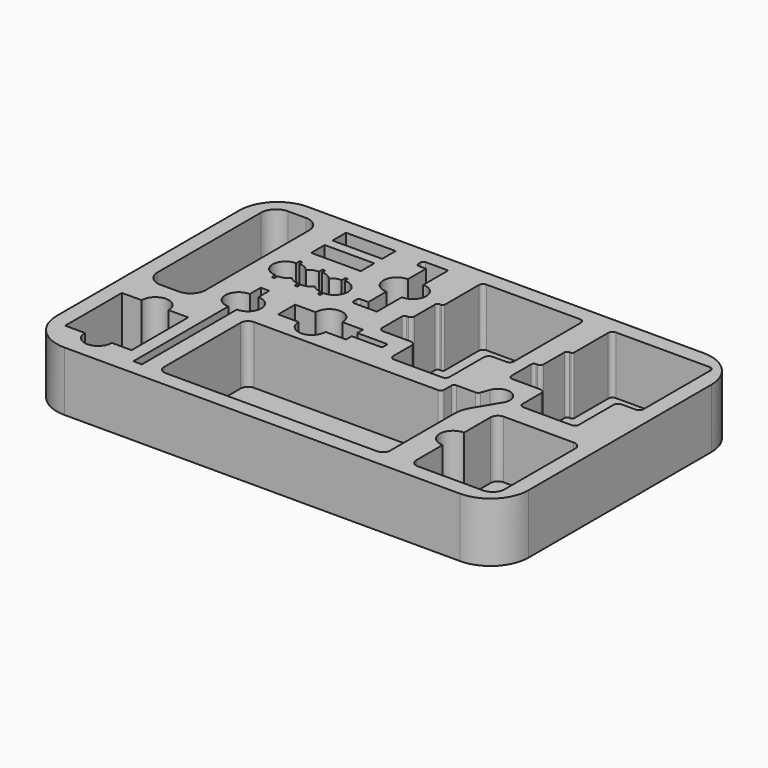
from build123d import *

# Parameters (mm, degrees)
F1_DEPTH  = 39
F3_DEPTH  = 38
F5_DEPTH  = 38
F7_DEPTH  = 38
F9_DEPTH  = 38
F11_DEPTH = 38
F13_DEPTH = 33
F14_W     = 32.6
F14_H     = 11.1
F15_DEPTH = 37
F17_DEPTH = 38
F19_DEPTH = 38
F21_DEPTH = 38


with BuildPart() as f1:
    # F0 (on Top) → F1 (new body)
    with BuildSketch(Plane.XY):
        with BuildLine():
            ThreePointArc((203, 93), (195.67767, 110.67767), (178, 118))
            Line((178, 118), (-82, 118))
            ThreePointArc((-82, 118), (-99.67767, 110.67767), (-107, 93))
            Line((-107, 93), (-107, -57))
            ThreePointArc((-107, -57), (-99.67767, -74.67767), (-82, -82))
            Line((-82, -82), (178, -82))
            ThreePointArc((178, -82), (195.67767, -74.67767), (203, -57))
            Line((203, -57), (203, 93))
        make_face()
    extrude(amount=-F1_DEPTH)

    # F2 (on face) → F3 (cut)
    with BuildSketch(Plane.XY):
        with BuildLine():
            Line((137.2, -6), (137.2, -27.702273))
            ThreePointArc((137.2, -27.702273), (128.2, -36.5), (137.2, -45.297727))
            Line((137.2, -45.297727), (137.2, -67))
            ThreePointArc((137.2, -67), (138.605887, -70.394113), (142, -71.8))
            Line((142, -71.8), (185, -71.8))
            ThreePointArc((185, -71.8), (190.515433, -69.515433), (192.8, -64))
            Line((192.8, -64), (192.8, -6))
            ThreePointArc((192.8, -6), (191.394113, -2.605887), (188, -1.2))
            Line((188, -1.2), (142, -1.2))
            ThreePointArc((142, -1.2), (138.605887, -2.605887), (137.2, -6))
        make_face()
    extrude(amount=-F3_DEPTH, mode=Mode.SUBTRACT)

    # F4 (on face) → F5 (cut)
    with BuildSketch(Plane.XY):
        with BuildLine():
            Line((190, 107.8), (128.5, 107.8))
            ThreePointArc((128.5, 107.8), (126.520101, 106.979899), (125.7, 105))
            Line((125.7, 105), (125.7, 77))
            ThreePointArc((125.7, 77), (125.348528, 76.151472), (124.5, 75.8))
            Line((124.5, 75.8), (123.5, 75.8))
            ThreePointArc((123.5, 75.8), (122.227208, 75.272792), (121.7, 74))
            Line((121.7, 74), (121.7, 57))
            ThreePointArc((121.7, 57), (121.055635, 55.444365), (119.5, 54.8))
            Line((119.5, 54.8), (118.5, 54.8))
            ThreePointArc((118.5, 54.8), (117.227208, 54.272792), (116.7, 53))
            Line((116.7, 53), (116.7, 37))
            ThreePointArc((116.7, 37), (117.520101, 35.020101), (119.5, 34.2))
            Line((119.5, 34.2), (137.5, 34.2))
            ThreePointArc((137.5, 34.2), (139.762742, 33.262742), (140.7, 31))
            Line((140.7, 31), (140.7, 16))
            ThreePointArc((140.7, 16), (141.520101, 14.020101), (143.5, 13.2))
            Line((143.5, 13.2), (175, 13.2))
            ThreePointArc((175, 13.2), (176.979899, 14.020101), (177.8, 16))
            Line((177.8, 16), (177.8, 44))
            ThreePointArc((177.8, 44), (178.737258, 46.262742), (181, 47.2))
            Line((181, 47.2), (190, 47.2))
            ThreePointArc((190, 47.2), (191.979899, 48.020101), (192.8, 50))
            Line((192.8, 50), (192.8, 105))
            ThreePointArc((192.8, 105), (191.979899, 106.979899), (190, 107.8))
        make_face()
        with BuildLine():
            Line((105, 107.8), (43.5, 107.8))
            ThreePointArc((43.5, 107.8), (41.520101, 106.979899), (40.7, 105))
            Line((40.7, 105), (40.7, 77))
            ThreePointArc((40.7, 77), (40.348528, 76.151472), (39.5, 75.8))
            Line((39.5, 75.8), (38.5, 75.8))
            ThreePointArc((38.5, 75.8), (37.227208, 75.272792), (36.7, 74))
            Line((36.7, 74), (36.7, 57))
            ThreePointArc((36.7, 57), (36.055635, 55.444365), (34.5, 54.8))
            Line((34.5, 54.8), (33.5, 54.8))
            ThreePointArc((33.5, 54.8), (32.227208, 54.272792), (31.7, 53))
            Line((31.7, 53), (31.7, 37))
            ThreePointArc((31.7, 37), (32.520101, 35.020101), (34.5, 34.2))
            Line((34.5, 34.2), (52.5, 34.2))
            ThreePointArc((52.5, 34.2), (54.762742, 33.262742), (55.7, 31))
            Line((55.7, 31), (55.7, 16))
            ThreePointArc((55.7, 16), (56.520101, 14.020101), (58.5, 13.2))
            Line((58.5, 13.2), (90, 13.2))
            ThreePointArc((90, 13.2), (91.979899, 14.020101), (92.8, 16))
            Line((92.8, 16), (92.8, 44))
            ThreePointArc((92.8, 44), (93.737258, 46.262742), (96, 47.2))
            Line((96, 47.2), (105, 47.2))
            ThreePointArc((105, 47.2), (106.979899, 48.020101), (107.8, 50))
            Line((107.8, 50), (107.8, 105))
            ThreePointArc((107.8, 105), (106.979899, 106.979899), (105, 107.8))
        make_face()
    extrude(amount=-F5_DEPTH, mode=Mode.SUBTRACT)

    # F6 (on face) → F7 (cut)
    with BuildSketch(Plane.XY):
        with BuildLine():
            Line((25.3, 29.1), (11.797727, 29.1))
            ThreePointArc((11.797727, 29.1), (3, 38.1), (-5.797727, 29.1))
            Line((-5.797727, 29.1), (-19.3, 29.1))
            Line((-19.3, 29.1), (-19.3, 15.2))
            Line((-19.3, 15.2), (-5.797727, 15.2))
            ThreePointArc((-5.797727, 15.2), (3, 6.2), (11.797727, 15.2))
            Line((11.797727, 15.2), (25.3, 15.2))
            Line((25.3, 15.2), (25.3, 19.85))
            Line((25.3, 19.85), (44.5, 19.85))
            ThreePointArc((44.5, 19.85), (45.065685, 20.084315), (45.3, 20.65))
            Line((45.3, 20.65), (45.3, 23.65))
            ThreePointArc((45.3, 23.65), (45.065685, 24.215685), (44.5, 24.45))
            Line((44.5, 24.45), (25.3, 24.45))
            Line((25.3, 24.45), (25.3, 29.1))
        make_face()
    extrude(amount=-F7_DEPTH, mode=Mode.SUBTRACT)

    # F8 (on face) → F9 (cut)
    with BuildSketch(Plane.XY):
        with BuildLine():
            Line((-39.2, 32.8), (-44.8, 32.8))
            Line((-44.8, 32.8), (-44.8, 23.797727))
            ThreePointArc((-44.8, 23.797727), (-53.8, 15), (-44.8, 6.202273))
            Line((-44.8, 6.202273), (-44.8, -71.8))
            Line((-44.8, -71.8), (-39.2, -71.8))
            Line((-39.2, -71.8), (-39.2, 6.202273))
            ThreePointArc((-39.2, 6.202273), (-30.2, 15), (-39.2, 23.797727))
            Line((-39.2, 23.797727), (-39.2, 32.8))
        make_face()
    extrude(amount=-F9_DEPTH, mode=Mode.SUBTRACT)

    # F10 (on face) → F11 (cut)
    with BuildSketch(Plane.XY):
        with BuildLine():
            Line((-65.2, 13), (-65.2, 98))
            ThreePointArc((-65.2, 98), (-68.070354, 104.929646), (-75, 107.8))
            Line((-75, 107.8), (-87, 107.8))
            ThreePointArc((-87, 107.8), (-93.929646, 104.929646), (-96.8, 98))
            Line((-96.8, 98), (-96.8, 13))
            ThreePointArc((-96.8, 13), (-93.929646, 6.070354), (-87, 3.2))
            Line((-87, 3.2), (-75, 3.2))
            ThreePointArc((-75, 3.2), (-68.070354, 6.070354), (-65.2, 13))
        make_face()
    extrude(amount=-F11_DEPTH, mode=Mode.SUBTRACT)

    # F12 (on face) → F13 (cut)
    with BuildSketch(Plane.XY):
        with BuildLine():
            ThreePointArc((-24.047618, 51.239287), (-21.176153, 49.211028), (-17.726098, 48.535557))
            Line((-17.726098, 48.535557), (-17.745115, 45.533236))
            Line((-17.745115, 45.533236), (-15.9, 45.533236))
            Line((-15.9, 45.533236), (-15.9, 48.202273))
            ThreePointArc((-15.9, 48.202273), (-6.9, 57), (-15.9, 65.797727))
            Line((-15.9, 65.797727), (-15.9, 68.332776))
            Line((-15.9, 68.332776), (-17.600698, 68.332776))
            Line((-17.600698, 68.332776), (-17.619715, 65.330455))
            ThreePointArc((-17.619715, 65.330455), (-21.087444, 64.694859), (-23.988932, 62.692238))
            ThreePointArc((-23.988932, 62.692238), (-27.093129, 65.02686), (-30.9, 65.797727))
            Line((-30.9, 65.797727), (-30.9, 68.332776))
            Line((-30.9, 68.332776), (-32.600698, 68.332776))
            Line((-32.600698, 68.332776), (-32.619715, 65.330455))
            ThreePointArc((-32.619715, 65.330455), (-36.087444, 64.694859), (-38.988932, 62.692238))
            ThreePointArc((-38.988932, 62.692238), (-42.093129, 65.02686), (-45.9, 65.797727))
            Line((-45.9, 65.797727), (-45.9, 68.332776))
            Line((-45.9, 68.332776), (-47.600698, 68.332776))
            Line((-47.600698, 68.332776), (-47.619715, 65.330455))
            ThreePointArc((-47.619715, 65.330455), (-56.272733, 56.987479), (-47.726098, 48.535557))
            Line((-47.726098, 48.535557), (-47.745115, 45.533236))
            Line((-47.745115, 45.533236), (-45.9, 45.533236))
            Line((-45.9, 45.533236), (-45.9, 48.202273))
            ThreePointArc((-45.9, 48.202273), (-42.134306, 48.954764), (-39.047618, 51.239287))
            ThreePointArc((-39.047618, 51.239287), (-36.176153, 49.211028), (-32.726098, 48.535557))
            Line((-32.726098, 48.535557), (-32.745115, 45.533236))
            Line((-32.745115, 45.533236), (-30.9, 45.533236))
            Line((-30.9, 45.533236), (-30.9, 48.202273))
            ThreePointArc((-30.9, 48.202273), (-27.134306, 48.954764), (-24.047618, 51.239287))
        make_face()
    extrude(amount=-F13_DEPTH, mode=Mode.SUBTRACT)

    # F14 (on face) → F15 (cut)
    with BuildSketch(Plane.XY):
        with Locations((-32.5, 102.25)):
            Rectangle(F14_W, F14_H)
        with Locations((-32.5, 84.75)):
            Rectangle(F14_W, F14_H)
    extrude(amount=-F15_DEPTH, mode=Mode.SUBTRACT)

    # F16 (on face) → F17 (cut)
    with BuildSketch(Plane.XY):
        with BuildLine():
            ThreePointArc((18.333754, 69.702273), (27.333754, 78.5), (18.333754, 87.297727))
            Line((18.333754, 87.297727), (18.333754, 107.8))
            Line((18.333754, 107.8), (3.533754, 107.8))
            ThreePointArc((3.533754, 107.8), (2.260962, 107.272792), (1.733754, 106))
            Line((1.733754, 106), (1.733754, 104))
            ThreePointArc((1.733754, 104), (2.260962, 102.727208), (3.533754, 102.2))
            Line((3.533754, 102.2), (8.233754, 102.2))
            Line((8.233754, 102.2), (8.233754, 87.297727))
            ThreePointArc((8.233754, 87.297727), (-0.766246, 78.5), (8.233754, 69.702273))
            Line((8.233754, 69.702273), (8.233754, 54.8))
            Line((8.233754, 54.8), (3.533754, 54.8))
            ThreePointArc((3.533754, 54.8), (2.260962, 54.272792), (1.733754, 53))
            Line((1.733754, 53), (1.733754, 51))
            ThreePointArc((1.733754, 51), (2.260962, 49.727208), (3.533754, 49.2))
            Line((3.533754, 49.2), (18.333754, 49.2))
            Line((18.333754, 49.2), (18.333754, 69.702273))
        make_face()
    extrude(amount=-F17_DEPTH, mode=Mode.SUBTRACT)

    # F18 (on face) → F19 (cut)
    with BuildSketch(Plane.XY):
        with BuildLine():
            Line((122.951586, -4.164011), (131.998892, 11.004397))
            ThreePointArc((131.998892, 11.004397), (128.660688, 22.038876), (117.981152, 17.697121))
            Line((117.981152, 17.697121), (115.969842, 12.239274))
            ThreePointArc((115.969842, 12.239274), (115.163804, 11.19534), (113.905551, 10.8))
            Line((113.905551, 10.8), (101.3, 10.8))
            ThreePointArc((101.3, 10.8), (100.027208, 10.272792), (99.5, 9))
            Line((99.5, 9), (99.5, 3))
            ThreePointArc((99.5, 3), (98.855635, 1.444365), (97.3, 0.8))
            Line((97.3, 0.8), (-23.7, 0.8))
            ThreePointArc((-23.7, 0.8), (-27.094113, -0.605887), (-28.5, -4))
            Line((-28.5, -4), (-28.5, -67))
            ThreePointArc((-28.5, -67), (-27.094113, -70.394113), (-23.7, -71.8))
            Line((-23.7, -71.8), (115.3, -71.8))
            ThreePointArc((115.3, -71.8), (118.694113, -70.394113), (120.1, -67))
            Line((120.1, -67), (120.1, -14.511597))
            ThreePointArc((120.1, -14.511597), (120.825941, -9.144939), (122.951586, -4.164011))
        make_face()
    extrude(amount=-F19_DEPTH, mode=Mode.SUBTRACT)

    # F20 (on face) → F21 (cut)
    with BuildSketch(Plane.XY):
        with BuildLine():
            Line((-53.2, -16.2), (-66.202273, -16.2))
            ThreePointArc((-66.202273, -16.2), (-75, -7.2), (-83.797727, -16.2))
            Line((-83.797727, -16.2), (-96.8, -16.2))
            Line((-96.8, -16.2), (-96.8, -62.8))
            Line((-96.8, -62.8), (-83.797727, -62.8))
            ThreePointArc((-83.797727, -62.8), (-75, -71.8), (-66.202273, -62.8))
            Line((-66.202273, -62.8), (-53.2, -62.8))
            Line((-53.2, -62.8), (-53.2, -16.2))
        make_face()
    extrude(amount=-F21_DEPTH, mode=Mode.SUBTRACT)


solid = f1.part
